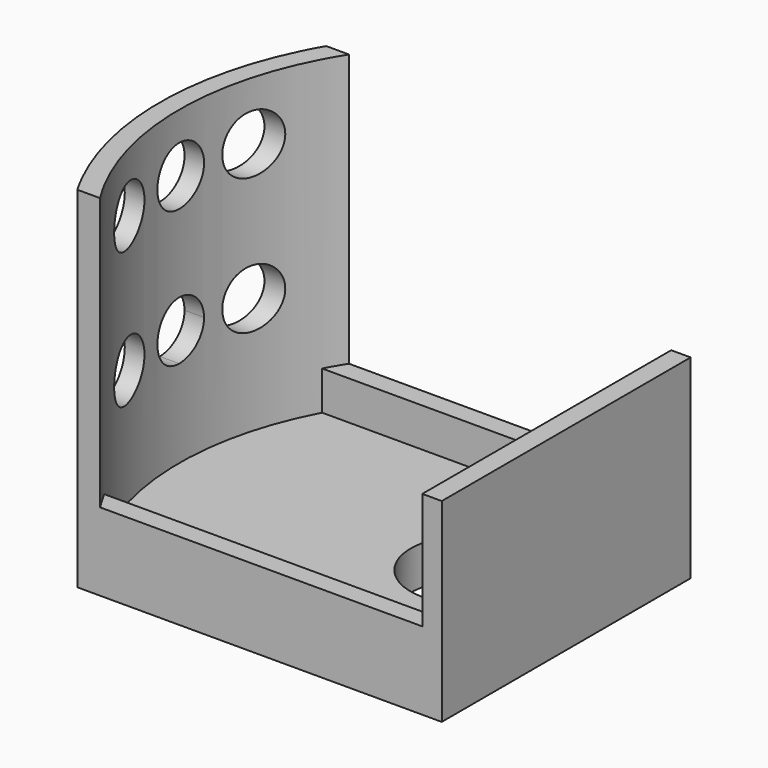
from build123d import *

# Parameters (mm, degrees)
F0_R     = 1.5
F0_W     = 0.5
F0_H     = 3.5
F0_H_2   = 0.5
F1_DEPTH = 1
F2_DEPTH = 5
F3_DEPTH = 2
F4_DEPTH = 4
F5_R     = 0.75
F6_DEPTH = 25


with BuildPart() as f1:
    # F0 (on Top) → F1 (new body)
    with BuildSketch(Plane.XY):
        with BuildLine():
            Line((2, -3.5), (2, 0))
            Line((2, 0), (2, 3.5))
            Line((2, 3.5), (-6.5766632877, 3.5))
            ThreePointArc((-6.5766632877, 3.5), (-7.45, 0), (-6.5766632877, -3.5))
            Line((-6.5766632877, -3.5), (2, -3.5))
        make_face()
        Circle(F0_R, mode=Mode.SUBTRACT)
        with Locations((2.25, -1.75)):
            Rectangle(F0_W, F0_H)
        with Locations((2.25, 1.75)):
            Rectangle(F0_W, F0_H)
        with BuildLine():
            ThreePointArc((-6.2851014312, -4), (-6.4357398892, -3.7528325408), (-6.5766632877, -3.5))
            Line((-6.5766632877, -3.5), (-7.1381019886, -3.5))
            ThreePointArc((-7.1381019886, -3.5), (-7.0087149266, -3.7523879167), (-6.8704075571, -4))
            Line((-6.8704075571, -4), (-6.2851014312, -4))
        make_face()
        with BuildLine():
            Line((-7.1381019886, 3.5), (-6.5766632877, 3.5))
            ThreePointArc((-6.5766632877, 3.5), (-6.4357398892, 3.7528325408), (-6.2851014312, 4))
            Line((-6.2851014312, 4), (-6.8704075571, 4))
            ThreePointArc((-6.8704075571, 4), (-7.0087149266, 3.7523879167), (-7.1381019886, 3.5))
        make_face()
        with Locations((2.25, 3.75)):
            Rectangle(F0_W, F0_H_2)
        with Locations((2.25, -3.75)):
            Rectangle(F0_W, F0_H_2)
        with BuildLine():
            ThreePointArc((-6.5766632877, -3.5), (-7.45, 0), (-6.5766632877, 3.5))
            Line((-6.5766632877, 3.5), (-7.1381019886, 3.5))
            ThreePointArc((-7.1381019886, 3.5), (-7.95, 0), (-7.1381019886, -3.5))
            Line((-7.1381019886, -3.5), (-6.5766632877, -3.5))
        make_face()
        with BuildLine():
            Line((-6.5766632877, 3.5), (2, 3.5))
            Line((2, 3.5), (2, 4))
            Line((2, 4), (-6.2851014312, 4))
            ThreePointArc((-6.2851014312, 4), (-6.4357398892, 3.7528325408), (-6.5766632877, 3.5))
        make_face()
        with BuildLine():
            Line((2, -4), (2, -3.5))
            Line((2, -3.5), (-6.5766632877, -3.5))
            ThreePointArc((-6.5766632877, -3.5), (-6.4357398892, -3.7528325408), (-6.2851014312, -4))
            Line((-6.2851014312, -4), (2, -4))
        make_face()
    extrude(amount=F1_DEPTH)

    # F0 (on Top) → F2 (join)
    with BuildSketch(Plane.XY):
        with Locations((2.25, -1.75)):
            Rectangle(F0_W, F0_H)
        with Locations((2.25, 1.75)):
            Rectangle(F0_W, F0_H)
        with BuildLine():
            ThreePointArc((-6.2851014312, -4), (-6.4357398892, -3.7528325408), (-6.5766632877, -3.5))
            Line((-6.5766632877, -3.5), (-7.1381019886, -3.5))
            ThreePointArc((-7.1381019886, -3.5), (-7.0087149266, -3.7523879167), (-6.8704075571, -4))
            Line((-6.8704075571, -4), (-6.2851014312, -4))
        make_face()
        with Locations((2.25, -3.75)):
            Rectangle(F0_W, F0_H_2)
        with Locations((2.25, 3.75)):
            Rectangle(F0_W, F0_H_2)
        with BuildLine():
            Line((-7.1381019886, 3.5), (-6.5766632877, 3.5))
            ThreePointArc((-6.5766632877, 3.5), (-6.4357398892, 3.7528325408), (-6.2851014312, 4))
            Line((-6.2851014312, 4), (-6.8704075571, 4))
            ThreePointArc((-6.8704075571, 4), (-7.0087149266, 3.7523879167), (-7.1381019886, 3.5))
        make_face()
        with BuildLine():
            ThreePointArc((-6.5766632877, -3.5), (-7.45, 0), (-6.5766632877, 3.5))
            Line((-6.5766632877, 3.5), (-7.1381019886, 3.5))
            ThreePointArc((-7.1381019886, 3.5), (-7.95, 0), (-7.1381019886, -3.5))
            Line((-7.1381019886, -3.5), (-6.5766632877, -3.5))
        make_face()
    extrude(amount=F2_DEPTH)

    # F0 (on Top) → F3 (join)
    with BuildSketch(Plane.XY):
        with BuildLine():
            Line((2, -4), (2, -3.5))
            Line((2, -3.5), (-6.5766632877, -3.5))
            ThreePointArc((-6.5766632877, -3.5), (-6.4357398892, -3.7528325408), (-6.2851014312, -4))
            Line((-6.2851014312, -4), (2, -4))
        make_face()
        with BuildLine():
            Line((-6.5766632877, 3.5), (2, 3.5))
            Line((2, 3.5), (2, 4))
            Line((2, 4), (-6.2851014312, 4))
            ThreePointArc((-6.2851014312, 4), (-6.4357398892, 3.7528325408), (-6.5766632877, 3.5))
        make_face()
    extrude(amount=F3_DEPTH)

    # F4 (add): a face of the model
    f4_faces = [f1.faces().sort_by_distance(p)[0] for p in [
        (-7.5317140669, 0, 5),
    ]]
    extrude(f4_faces, amount=F4_DEPTH)

    # F5 (on Right) → F6 (cut)
    with BuildSketch(Plane.YZ):
        with BuildLine():
            ThreePointArc((2.75, 4), (2, 4.75), (1.25, 4))
            ThreePointArc((1.25, 4), (2, 3.25), (2.75, 4))
        make_face()
        with BuildLine():
            Line((0, 4), (0, 3.25))
            ThreePointArc((0, 3.25), (0.5303300859, 3.4696699141), (0.75, 4))
            Line((0.75, 4), (0, 4))
        make_face()
        with BuildLine():
            Line((0, 4.75), (0, 4))
            Line((0, 4), (0.75, 4))
            ThreePointArc((0.75, 4), (0.5303300859, 4.5303300859), (0, 4.75))
        make_face()
        with BuildLine():
            ThreePointArc((-0.75, 4), (-0.5303300859, 3.4696699141), (0, 3.25))
            Line((0, 3.25), (0, 4))
            Line((0, 4), (-0.75, 4))
        make_face()
        with Locations((-2, 4)):
            Circle(F5_R)
        with BuildLine():
            Line((-0.75, 4), (0, 4))
            Line((0, 4), (0, 4.75))
            ThreePointArc((0, 4.75), (-0.5303300859, 4.5303300859), (-0.75, 4))
        make_face()
        with Locations((2, 7.5)):
            Circle(F5_R)
        with Locations((0, 7.5)):
            Circle(F5_R)
        with Locations((-2, 7.5)):
            Circle(F5_R)
    extrude(amount=-F6_DEPTH, mode=Mode.SUBTRACT)


solid = f1.part
